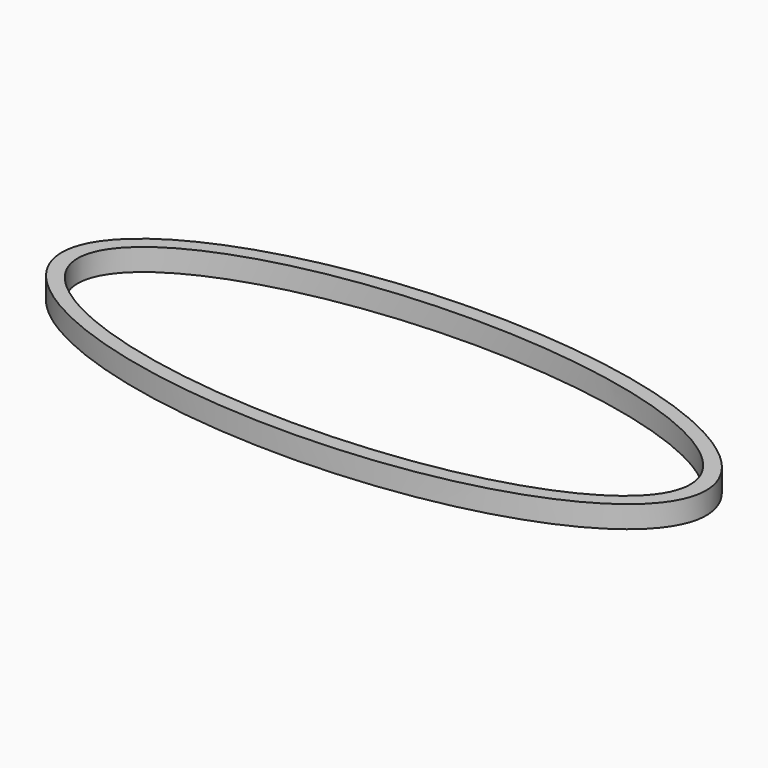
from build123d import *

# Parameters (mm, degrees)
F1_DEPTH = 4.445


with BuildPart() as f1:
    # F0 (on Top) → F1 (new body)
    with BuildSketch(Plane.XY):
        with BuildLine():
            add(Edge.make_bspline(
                [(-64.789779, 0), (-64.789779, -44.34607), (32.39489, -22.173035), (129.579559, 0), (32.39489, 22.173035), (-64.789779, 44.34607), (-64.789779, 0)],
                knots=[0, 0, 0, 2.094395, 2.094395, 4.18879, 4.18879, 6.283185, 6.283185, 6.283185], degree=2, weights=[1, 0.5, 1, 0.5, 1, 0.5, 1]))
        make_face()
        with BuildLine():
            add(Edge.make_bspline(
                [(-61.576802, 0), (-61.576802, -39.156372), (30.788401, -19.578186), (123.153605, 0), (30.788401, 19.578186), (-61.576802, 39.156372), (-61.576802, 0)],
                knots=[0, 0, 0, 2.094395, 2.094395, 4.18879, 4.18879, 6.283185, 6.283185, 6.283185], degree=2, weights=[1, 0.5, 1, 0.5, 1, 0.5, 1]))
        make_face(mode=Mode.SUBTRACT)
    extrude(amount=F1_DEPTH)


solid = f1.part
